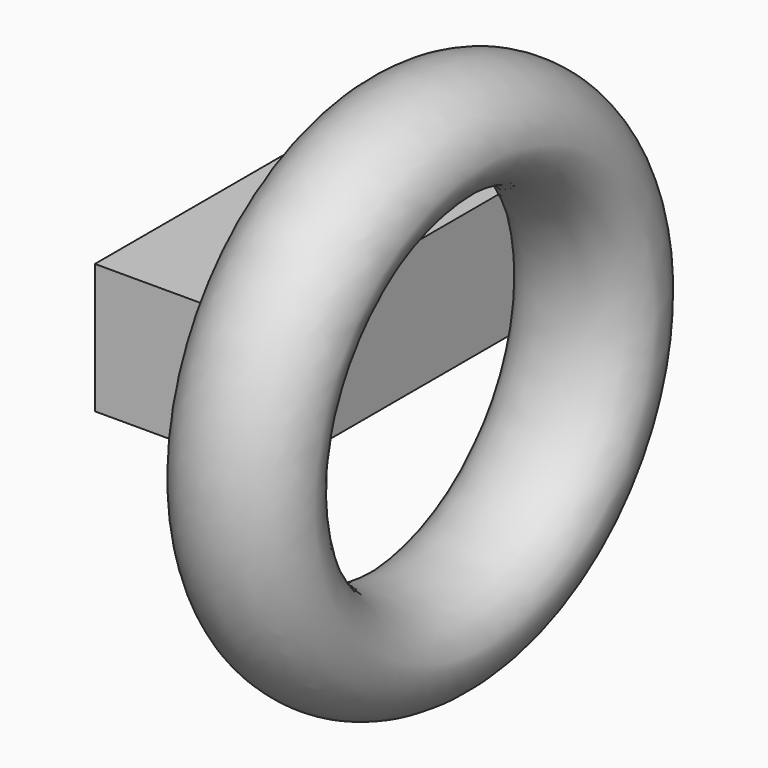
from build123d import *

# Parameters (mm, degrees)
F0_W     = 29.029588
F0_H     = 52.791893
F1_DEPTH = 21.824205
F2_R     = 11.274545


with BuildPart() as f1:
    # F0 (on Top) → F1 (new body)
    with BuildSketch(Plane.XY):
        with Locations((4.241337, 14.401301)):
            Rectangle(F0_W, F0_H)
    extrude(amount=F1_DEPTH)


with BuildPart() as f3:
    # F2 (on Top) → F3 (revolve)
    with BuildSketch(Plane.XY):
        with Locations((44.434689, 16.991001)):
            Circle(F2_R)
    revolve(axis=Axis((4.241337, -11.994645, 21.824205), (1, 0, 0)))


solid = Compound([f1.part, f3.part])
